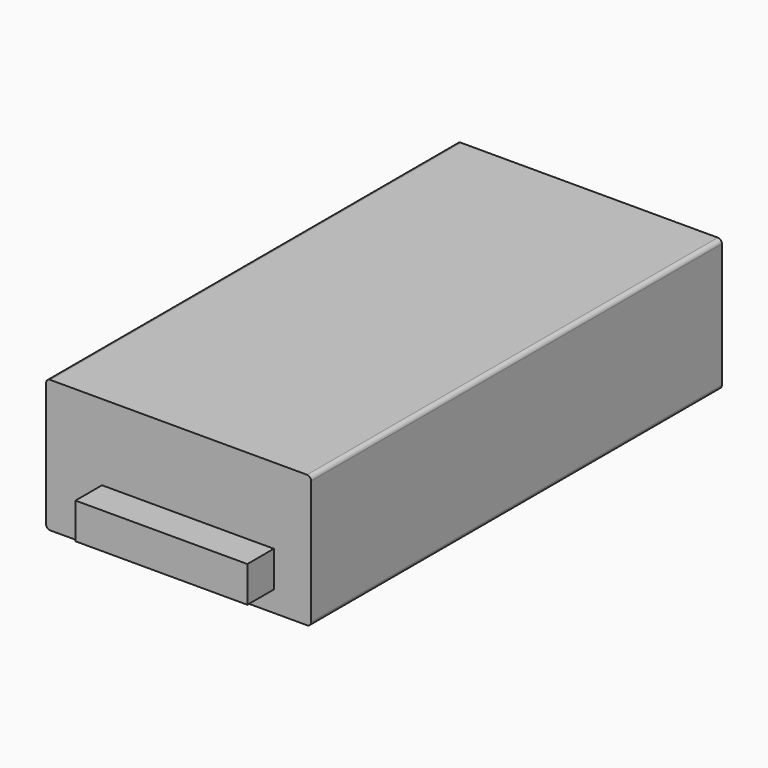
from build123d import *

# Parameters (mm, degrees)
F0_W     = 128
F0_H     = 64
F1_DEPTH = 248
F2_W     = 83
F2_H     = 17.327847
F3_DEPTH = 16
F4_W     = 35
F4_H     = 15
F5_DEPTH = 11
F6_R     = 2


with BuildPart() as f1:
    # F0 (on Front) → F1 (new body)
    with BuildSketch(Plane.XZ):
        with Locations((64, 32)):
            Rectangle(F0_W, F0_H)
    extrude(amount=F1_DEPTH)

    # F2 (on face) → F3 (join)
    with BuildSketch(Plane.XZ.offset(248)):
        with Locations((68.5, 18.663923)):
            Rectangle(F2_W, F2_H)
    extrude(amount=F3_DEPTH)

    # F4 (on face) → F5 (join)
    with BuildSketch(Plane(origin=(0, 0, 0), x_dir=(-1, 0, 0), z_dir=(0, 1, 0))):
        with Locations((-29, 18.5)):
            Rectangle(F4_W, F4_H)
    extrude(amount=F5_DEPTH)

    # F6
    f6_edges = [f1.edges().sort_by_distance(p)[0] for p in [
        (128, -124, 64),
        (128, -124, 0),
        (0, -124, 64),
        (0, -124, 0),
    ]]
    fillet(f6_edges, radius=F6_R)


solid = f1.part
